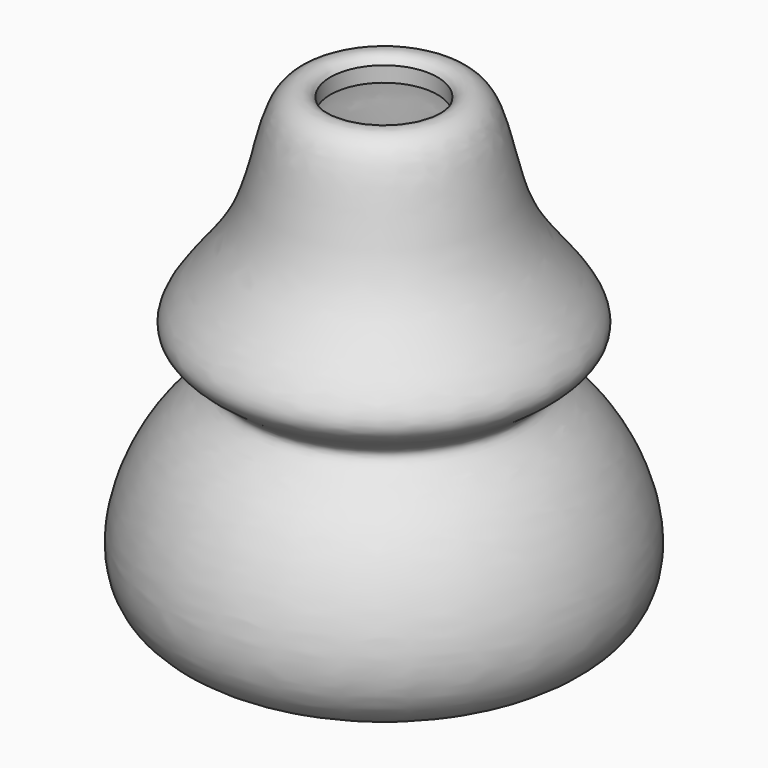
from build123d import *


with BuildPart() as f1:
    # F0 (on Front) → F1 (revolve)
    with BuildSketch(Plane.XZ):
        with BuildLine():
            Line((-19.666129391, 73.6386635641), (-19.666129391, 78.6386635641))
            add(Edge.make_bspline(
                [(-19.666129391, 78.6386635641), (-21.6889546028, 82.1412236481), (-35.3774026201, 80.8536774228), (-35.3434098754, 39.5533690165), (-71.1110173838, 12.5356314513), (-37.7717847337, -0.5516783555), (-64.7855467303, -11.8883883744), (-90.0526721737, -81.0636033312), (-10.2247570243, -77.8587763519), (-2.2762732298, -57.2057151283)],
                knots=[0, 0, 0, 0, 0.0792779805, 0.2393531663, 0.3885758896, 0.4970193936, 0.6101334448, 0.7933291679, 1, 1, 1, 1], degree=3))
            Line((-2.2762732298, -57.2057151283), (-2.2762732298, -52.2057151283))
            add(Edge.make_bspline(
                [(-19.666129391, 73.6386635641), (-21.6889546028, 77.1412236481), (-35.5107472512, 75.7375198778), (-29.6705091758, 39.4402501378), (-66.3733070619, 12.3512376598), (-32.9158233171, -0.3980978411), (-58.2413466576, -12.2934410896), (-91.7001840858, -74.7338599658), (-10.2247570243, -72.8587763519), (-2.2762732298, -52.2057151283)],
                knots=[0, 0, 0, 0, 0.0809309545, 0.2306980274, 0.3830320975, 0.493736687, 0.6092092064, 0.7890200077, 1, 1, 1, 1], degree=3))
        make_face()
    revolve(axis=Axis((-2.2762732298, 0, 13.2164742179), (0, 0, 1)))


solid = f1.part
